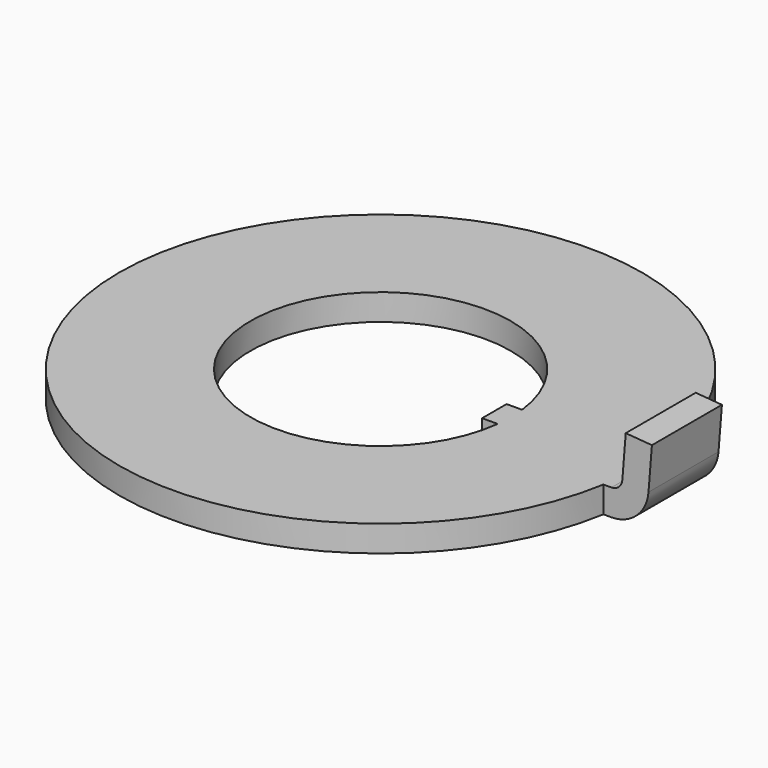
from build123d import *

# Parameters (mm, degrees)
SKETCH014_R   = 5.975
SKETCH014_R_2 = 2.975
PAD007_DEPTH  = 0.6
PAD008_DEPTH  = 1
SKETCH016_W   = 0.8
SKETCH016_H   = 0.7
PAD009_DEPTH  = 0.6


with BuildPart() as part:
    # Sketch014 → Pad007 (new body)
    with BuildSketch(Plane.XY):
        Circle(SKETCH014_R)
        Circle(SKETCH014_R_2, mode=Mode.SUBTRACT)
    extrude(amount=PAD007_DEPTH)

    # Sketch015 → Pad008 (join, symmetric)
    with BuildSketch(Plane.XZ):
        with BuildLine():
            Line((5.825, 0.6), (6.075, 0.6))
            ThreePointArc((6.075, 0.6), (6.244571, 0.6663), (6.324201, 0.830034))
            Line((6.324201, 0.830034), (6.401917, 1.8))
            Line((6.401917, 1.8), (7, 1.752081))
            Line((7, 1.752081), (6.922285, 0.782114))
            ThreePointArc((6.075, 0), (6.65154, 0.225419), (6.922285, 0.782114))
            Line((6.075, 0), (5.825, 0))
            Line((5.825, 0), (5.825, 0.6))
        make_face()
    extrude(amount=PAD008_DEPTH, both=True)

    # Sketch016 (on Face11 of Pad008) → Pad009 (join)
    with BuildSketch(Plane.XY.offset(0.6)):
        with Locations((3, 0)):
            Rectangle(SKETCH016_W, SKETCH016_H)
    extrude(amount=-PAD009_DEPTH)


with BuildPart() as part_1:
    # Body005 placement: moved
    add(part.part.moved(Location((0, 0, 1.75))))


solid = part_1.part
